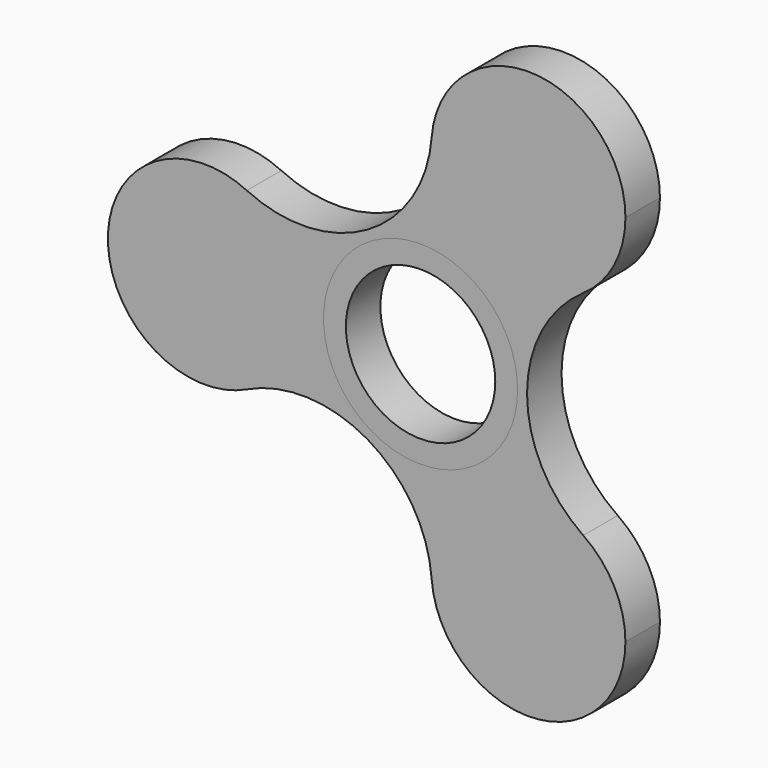
from build123d import *

# Parameters (mm, degrees)
F1_R     = 14.2875
F2_DEPTH = 6.35
F0_R     = 14.2875
F0_R_2   = 10.9982


with BuildPart() as f2:
    # F1 (on Front) → F2 (new body)
    with BuildSketch(Plane.XZ):
        with BuildLine():
            ThreePointArc((23.9537934556, -15.7121751829), (15.6755180632, 0), (23.9537934556, 15.7121751829))
            ThreePointArc((23.9537934556, 15.7121751829), (8.73125, 15.1229686136), (1.6302461293, 28.6006812411))
            ThreePointArc((1.6302461293, 28.6006812411), (-7.8377590316, 13.5753968602), (-25.584039585, 12.8885060581))
            ThreePointArc((-25.584039585, 12.8885060581), (-19.6622207234, 7.6169710785), (-17.4625, 0))
            ThreePointArc((-17.4625, 0), (-19.6622207234, -7.6169710785), (-25.584039585, -12.8885060581))
            ThreePointArc((-25.584039585, -12.8885060581), (-7.8377590316, -13.5753968602), (1.6302461293, -28.6006812411))
            ThreePointArc((1.6302461293, -28.6006812411), (8.73125, -15.1229686136), (23.9537934556, -15.7121751829))
        make_face()
        Circle(F1_R, mode=Mode.SUBTRACT)
        with BuildLine():
            ThreePointArc((1.6302461293, 28.6006812411), (8.73125, 15.1229686136), (23.9537934556, 15.7121751829))
            ThreePointArc((23.9537934556, 15.7121751829), (28.5153800921, 20.8364681805), (30.1625, 27.4963065702))
            ThreePointArc((30.1625, 27.4963065702), (16.4276008155, 41.7731160383), (1.6302461293, 28.6006812411))
        make_face()
        with BuildLine():
            ThreePointArc((30.1625, -27.4963065702), (28.5153800921, -20.8364681805), (23.9537934556, -15.7121751829))
            ThreePointArc((23.9537934556, -15.7121751829), (8.73125, -15.1229686136), (1.6302461293, -28.6006812411))
            ThreePointArc((1.6302461293, -28.6006812411), (16.4276008155, -41.7731160383), (30.1625, -27.4963065702))
        make_face()
        with BuildLine():
            ThreePointArc((-17.4625, 0), (-19.6622207234, 7.6169710785), (-25.584039585, 12.8885060581))
            ThreePointArc((-25.584039585, 12.8885060581), (-46.0375, 0), (-25.584039585, -12.8885060581))
            ThreePointArc((-25.584039585, -12.8885060581), (-19.6622207234, -7.6169710785), (-17.4625, 0))
        make_face()
    extrude(amount=F2_DEPTH)


with BuildPart() as f2b:
    # F0 (on Front) → F2, piece 2 (new body)
    with BuildSketch(Plane.XZ):
        Circle(F0_R)
        Circle(F0_R_2, mode=Mode.SUBTRACT)
    extrude(amount=F2_DEPTH)


solid = Compound([f2.part, f2b.part])
